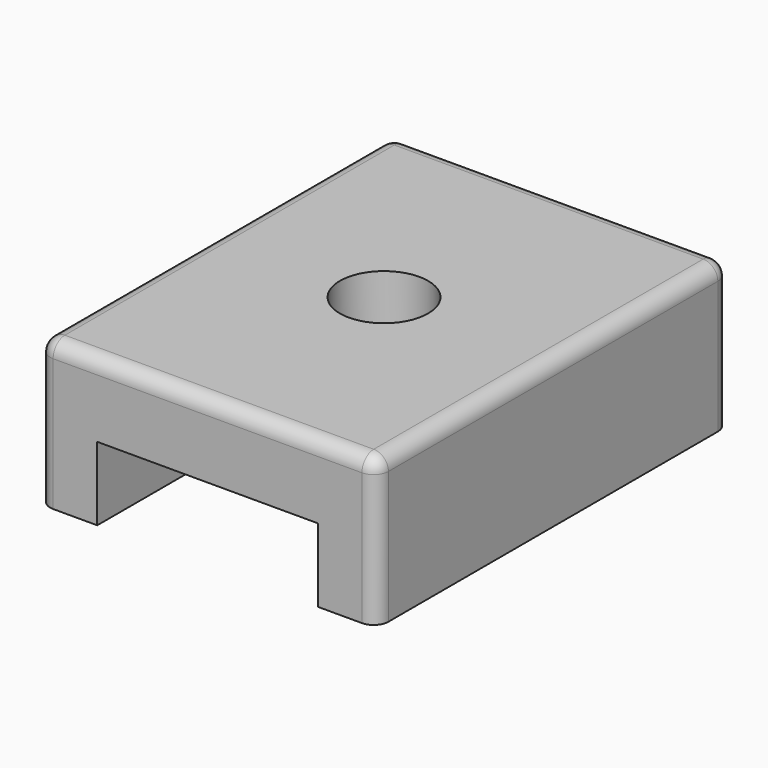
from build123d import *

# Parameters (mm, degrees)
F1_DEPTH = 60
F2_R     = 6
F3_DEPTH = 25
F4_R     = 2


with BuildPart() as f1:
    # F0 (on Front) → F1 (new body)
    with BuildSketch(Plane.XZ):
        Polygon((-23, 10), (-23, -10), (-15, -10), (-15, 0), (15, 0), (15, -10), (23, -10), (23, 10), align=None)
    extrude(amount=F1_DEPTH)

    # F2 (on face) → F3 (cut)
    with BuildSketch(Plane.XY.offset(10)):
        with Locations((0, -30)):
            Circle(F2_R)
    extrude(amount=-F3_DEPTH, mode=Mode.SUBTRACT)

    # F4
    f4_edges = [f1.edges().sort_by_distance(p)[0] for p in [
        (0, 0, 10),
        (23, 0, 0),
        (-23, 0, 0),
        (-23, -60, 0),
        (-23, -30, 10),
        (0, -60, 10),
        (23, -30, 10),
        (23, -60, 0),
    ]]
    fillet(f4_edges, radius=F4_R)


solid = f1.part
